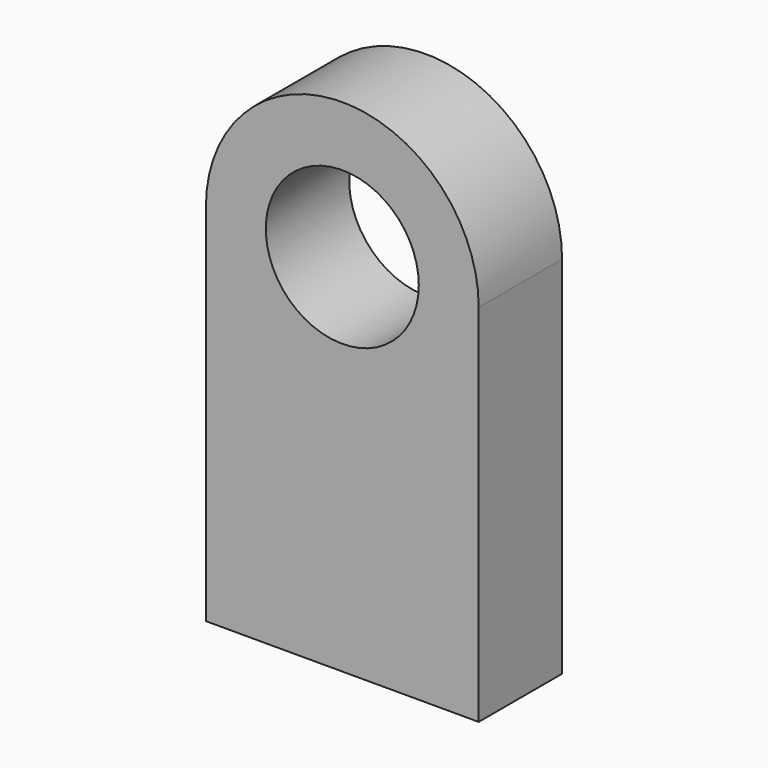
from build123d import *

# Parameters (mm, degrees)
F1_DEPTH = 31.75


with BuildPart() as f1:
    # F0 (on Front) → F1 (new body)
    with BuildSketch(Plane.XZ):
        with BuildLine():
            Line((-41.549053, -55.585895), (41.549053, -55.585895))
            Line((41.549053, -55.585895), (41.549053, 55.585895))
            ThreePointArc((41.549053, 55.585895), (0, 97.134948), (-41.549053, 55.585895))
            Line((-41.549053, 55.585895), (-41.549053, -55.585895))
        make_face()
        with BuildLine():
            ThreePointArc((-23.30116, 55.585895), (0, 78.887055), (23.30116, 55.585895))
            ThreePointArc((23.30116, 55.585895), (0, 32.284735), (-23.30116, 55.585895))
        make_face(mode=Mode.SUBTRACT)
    extrude(amount=F1_DEPTH)


solid = f1.part
